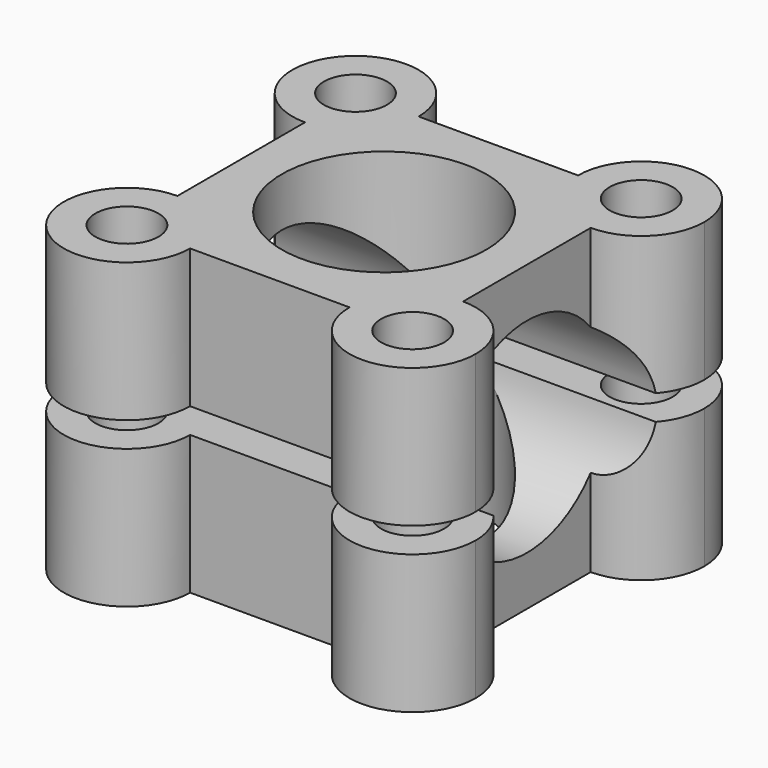
from build123d import *

# Parameters (mm, degrees)
F0_R          = 1.25
F0_R_2        = 4.05
F1_DEPTH      = 6
F2_R          = 4.05
F3_DEPTH      = 8.157854
F3_DEPTH_BACK = 8.157854
F4_W          = 27.181234
F4_H          = 24.001454
F5_DEPTH      = 0.5


with BuildPart() as f1:
    # F0 (on Top) → F1 (new body, symmetric)
    with BuildSketch(Plane.XY):
        with BuildLine():
            ThreePointArc((-5.656854, 3.156854), (-3.889087, 3.889087), (-3.156854, 5.656854))
            ThreePointArc((-3.156854, 5.656854), (-7.424621, 7.424621), (-5.656854, 3.156854))
        make_face()
        with Locations((-5.656854, 5.656854)):
            Circle(F0_R, mode=Mode.SUBTRACT)
        with BuildLine():
            Line((3.156854, 5.656854), (-3.156854, 5.656854))
            ThreePointArc((-3.156854, 5.656854), (-3.889087, 3.889087), (-5.656854, 3.156854))
            Line((-5.656854, 3.156854), (-5.656854, -3.156854))
            ThreePointArc((-5.656854, -3.156854), (-3.889087, -3.889087), (-3.156854, -5.656854))
            Line((-3.156854, -5.656854), (3.156854, -5.656854))
            ThreePointArc((3.156854, -5.656854), (3.889087, -3.889087), (5.656854, -3.156854))
            Line((5.656854, -3.156854), (5.656854, 3.156854))
            ThreePointArc((5.656854, 3.156854), (3.889087, 3.889087), (3.156854, 5.656854))
        make_face()
        Circle(F0_R_2, mode=Mode.SUBTRACT)
        with BuildLine():
            ThreePointArc((8.156854, 5.656854), (5.656854, 8.156854), (3.156854, 5.656854))
            ThreePointArc((3.156854, 5.656854), (3.889087, 3.889087), (5.656854, 3.156854))
            ThreePointArc((5.656854, 3.156854), (7.424621, 3.889087), (8.156854, 5.656854))
        make_face()
        with Locations((5.656854, 5.656854)):
            Circle(F0_R, mode=Mode.SUBTRACT)
        with BuildLine():
            ThreePointArc((-3.156854, -5.656854), (-3.889087, -3.889087), (-5.656854, -3.156854))
            ThreePointArc((-5.656854, -3.156854), (-7.424621, -7.424621), (-3.156854, -5.656854))
        make_face()
        with Locations((-5.656854, -5.656854)):
            Circle(F0_R, mode=Mode.SUBTRACT)
        with BuildLine():
            ThreePointArc((8.156854, -5.656854), (7.424621, -3.889087), (5.656854, -3.156854))
            ThreePointArc((5.656854, -3.156854), (3.889087, -3.889087), (3.156854, -5.656854))
            ThreePointArc((3.156854, -5.656854), (5.656854, -8.156854), (8.156854, -5.656854))
        make_face()
        with Locations((5.656854, -5.656854)):
            Circle(F0_R, mode=Mode.SUBTRACT)
    extrude(amount=F1_DEPTH, both=True)

    # F2 (on Right) → F3 (cut, two sides)
    with BuildSketch(Plane.YZ) as f3_sk:
        Circle(F2_R)
    extrude(amount=F3_DEPTH, mode=Mode.SUBTRACT)
    extrude(f3_sk.sketch, amount=-F3_DEPTH_BACK, mode=Mode.SUBTRACT)

    # F4 (on Top) → F5 (cut, symmetric)
    with BuildSketch(Plane.XY):
        Rectangle(F4_W, F4_H)
    extrude(amount=F5_DEPTH, both=True, mode=Mode.SUBTRACT)


solid = f1.part
